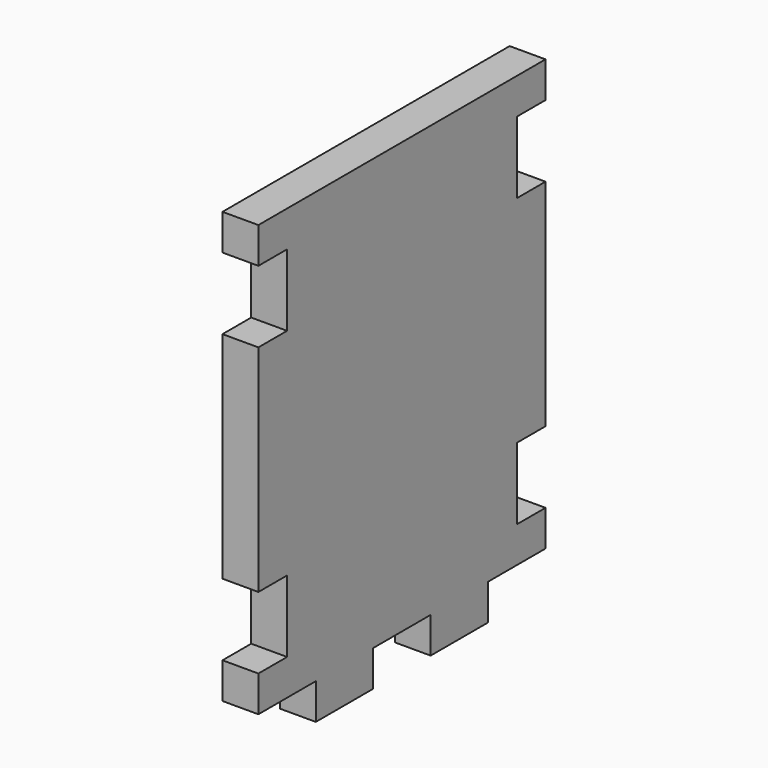
from build123d import *

# Parameters (mm, degrees)
F1_DEPTH = 6.35


with BuildPart() as f1:
    # F0 (on Right) → F1 (new body)
    with BuildSketch(Plane.YZ):
        Polygon((0, 12.7), (0, 6.35), (12.7, 6.35), (12.7, 0), (25.4, 0), (25.4, 6.35), (38.1, 6.35), (38.1, 0), (50.8, 0), (50.8, 6.35), (63.5, 6.35), (63.5, 12.7), (57.15, 12.7), (57.15, 25.4), (63.5, 25.4), (63.5, 63.5), (57.15, 63.5), (57.15, 76.2), (63.5, 76.2), (63.5, 82.55), (0, 82.55), (0, 76.2), (6.35, 76.2), (6.35, 63.5), (0, 63.5), (0, 25.4), (6.35, 25.4), (6.35, 12.7), align=None)
    extrude(amount=F1_DEPTH)


solid = f1.part
